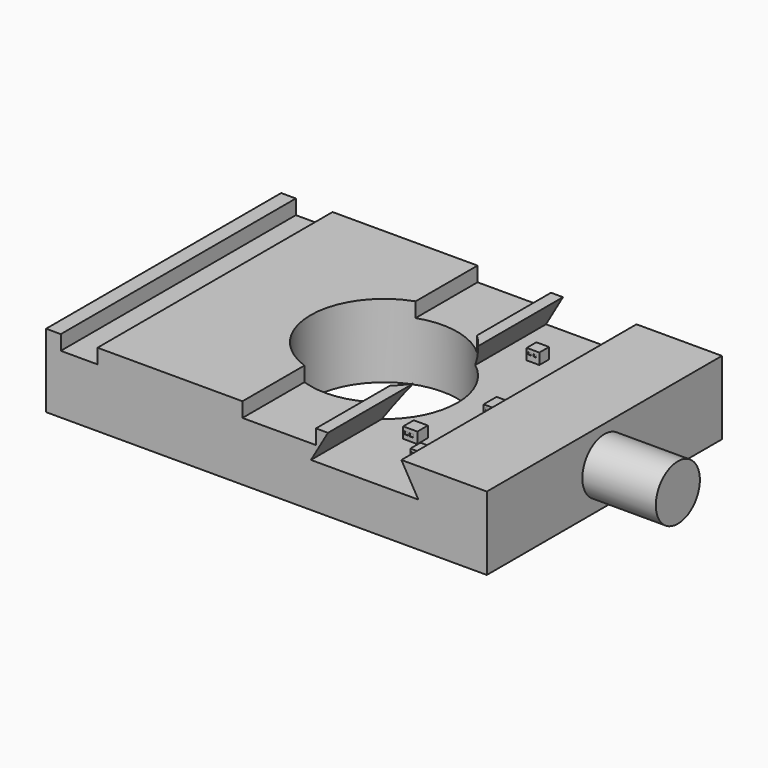
from build123d import *

# Parameters (mm, degrees)
F0_W      = 76.2
F0_H      = 50.8
F0_R      = 12.7
F1_DEPTH  = 12.7
F2_W      = 6.35
F2_H      = 50.8
F3_DEPTH  = 2.54
F5_DEPTH  = 50.801
F6_R      = 4.7625
F7_DEPTH  = 12.7
F8_W      = 2.186066
F8_H      = 2.098622
F8_W_2    = 2.360951
F8_H_2    = 2.798164
F8_W_3    = 2.448395
F8_H_3    = 2.273508
F8_H_4    = 2.186067
F9_DEPTH  = 1.905
F10_W     = 0.841629
F10_H     = 0.611811
F10_W_2   = 0.649078
F10_H_2   = 0.581
F11_DEPTH = 0.0762
F12_W     = 0.539394
F12_H     = 0.506463
F12_W_2   = 0.672908
F12_H_2   = 0.530849
F13_DEPTH = 0.0762
F14_W     = 0.521662
F14_H     = 0.444038
F14_W_2   = 0.538152
F14_H_2   = 0.436696
F15_DEPTH = 0.0762
F16_W     = 0.567031
F16_H     = 0.357919
F16_W_2   = 0.504408
F16_H_2   = 0.379607
F17_DEPTH = 0.0762


with BuildPart() as f1:
    # F0 (on Top) → F1 (new body)
    with BuildSketch(Plane.XY):
        Rectangle(F0_W, F0_H)
        Circle(F0_R, mode=Mode.SUBTRACT)
    extrude(amount=F1_DEPTH)

    # F2 (on face) → F3 (cut)
    with BuildSketch(Plane.XY.offset(12.7)):
        with Locations((-32.385, 0)):
            Rectangle(F2_W, F2_H)
        with BuildLine():
            Line((-4.147136, -12.003802), (-4.147136, -25.4))
            Line((-4.147136, -25.4), (8.552864, -25.4))
            Line((8.552864, -25.4), (8.552864, -9.388212))
            ThreePointArc((8.552864, -9.388212), (2.561823, -12.438933), (-4.147136, -12.003802))
        make_face()
        with BuildLine():
            Line((8.552864, 25.4), (-4.147136, 25.4))
            Line((-4.147136, 25.4), (-4.147136, 12.003802))
            ThreePointArc((-4.147136, 12.003802), (2.561823, 12.438933), (8.552864, 9.388212))
            Line((8.552864, 9.388212), (8.552864, 25.4))
        make_face()
    extrude(amount=-F3_DEPTH, mode=Mode.SUBTRACT)

    # F4 (on face) → F5 (cut, through all)
    with BuildSketch(Plane.XZ.offset(25.4)):
        Polygon((23.326432, 12.7), (10.626432, 12.7), (7.693492, 7.62), (26.259371, 7.62), align=None)
    extrude(amount=-F5_DEPTH, mode=Mode.SUBTRACT)

    # F6 (on face) → F7 (join)
    with BuildSketch(Plane.YZ.offset(38.1)):
        with Locations((0, 6.35)):
            Circle(F6_R)
    extrude(amount=F7_DEPTH)

    # F8 (on face) → F9 (join)
    with BuildSketch(Plane.XY.offset(7.62)):
        with Locations((13.345409, 16.570377)):
            Rectangle(F8_W, F8_H)
        with Locations((19.204065, 0.393492)):
            Rectangle(F8_W_2, F8_H_2)
        with Locations((14.788213, -11.67359)):
            Rectangle(F8_W_3, F8_H_3)
        with Locations((19.597556, -16.176885)):
            Rectangle(F8_W_3, F8_H_4)
    extrude(amount=F9_DEPTH)

    # F10 (on face) → F11 (cut)
    with BuildSketch(Plane.XZ.offset(17.269919)):
        with Locations((20.068542, 8.770566)):
            Rectangle(F10_W, F10_H)
        with Locations((18.937801, 8.785971)):
            Rectangle(F10_W_2, F10_H_2)
    extrude(amount=-F11_DEPTH, mode=Mode.SUBTRACT)

    # F12 (on face) → F13 (cut)
    with BuildSketch(Plane.XZ.offset(12.810344)):
        with Locations((14.095002, 8.64309)):
            Rectangle(F12_W, F12_H)
        with Locations((15.033044, 8.630897)):
            Rectangle(F12_W_2, F12_H_2)
    extrude(amount=-F13_DEPTH, mode=Mode.SUBTRACT)

    # F14 (on face) → F15 (cut)
    with BuildSketch(Plane.XZ.offset(1.00559)):
        with Locations((18.586445, 8.935527)):
            Rectangle(F14_W, F14_H)
        with Locations((19.417457, 8.939198)):
            Rectangle(F14_W_2, F14_H_2)
    extrude(amount=-F15_DEPTH, mode=Mode.SUBTRACT)

    # F16 (on face) → F17 (cut)
    with BuildSketch(Plane.XZ.offset(-15.521066)):
        with Locations((12.797092, 8.772087)):
            Rectangle(F16_W, F16_H)
        with Locations((13.668423, 8.761243)):
            Rectangle(F16_W_2, F16_H_2)
    extrude(amount=-F17_DEPTH, mode=Mode.SUBTRACT)


solid = f1.part
